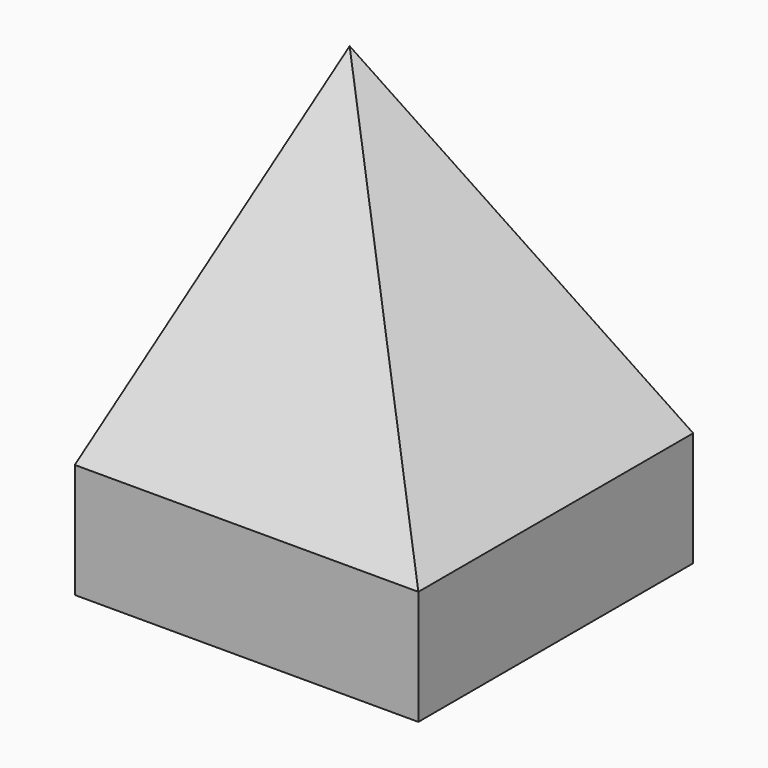
from build123d import *

# Parameters (mm, degrees)
F1_DEPTH = 30
F3_DEPTH = 30.001


with BuildPart() as f1:
    # F0 (on Front) → F1 (new body)
    with BuildSketch(Plane.XZ):
        Polygon((0, 30), (0, 0), (30, 0), (30, 10), align=None)
    extrude(amount=F1_DEPTH)

    # F2 (on face) → F3 (cut, through all)
    with BuildSketch(Plane(origin=(0, 0, 0), x_dir=(0, -1, 0), z_dir=(-1, 0, 0))):
        Polygon((30, 10), (30, 30), (0, 30), align=None)
    extrude(amount=-F3_DEPTH, mode=Mode.SUBTRACT)


solid = f1.part
